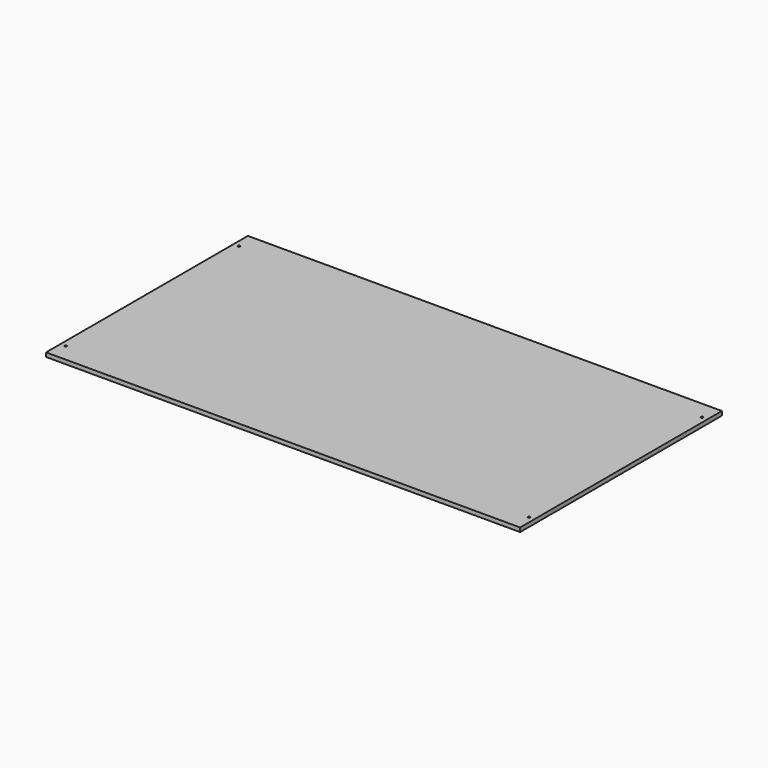
from build123d import *

# Parameters (mm, degrees)
F0_W     = 1384.3
F0_H     = 736.6
F1_DEPTH = 5.9944
F2_R     = 3.175
F3_DEPTH = 11.9888


with BuildPart() as f1:
    # F0 (on Top) → F1 (new body, symmetric)
    with BuildSketch(Plane.XY):
        Rectangle(F0_W, F0_H)
    extrude(amount=F1_DEPTH, both=True)

    # F2 (on face) → F3 (cut, through all)
    with BuildSketch(Plane.XY.offset(5.9944)):
        with Locations((-676.275, 315.9125)):
            Circle(F2_R)
        with Locations((676.275, 315.9125)):
            Circle(F2_R)
        with Locations((676.275, -315.9125)):
            Circle(F2_R)
        with Locations((-676.275, -315.9125)):
            Circle(F2_R)
    extrude(amount=-F3_DEPTH, mode=Mode.SUBTRACT)


solid = f1.part
